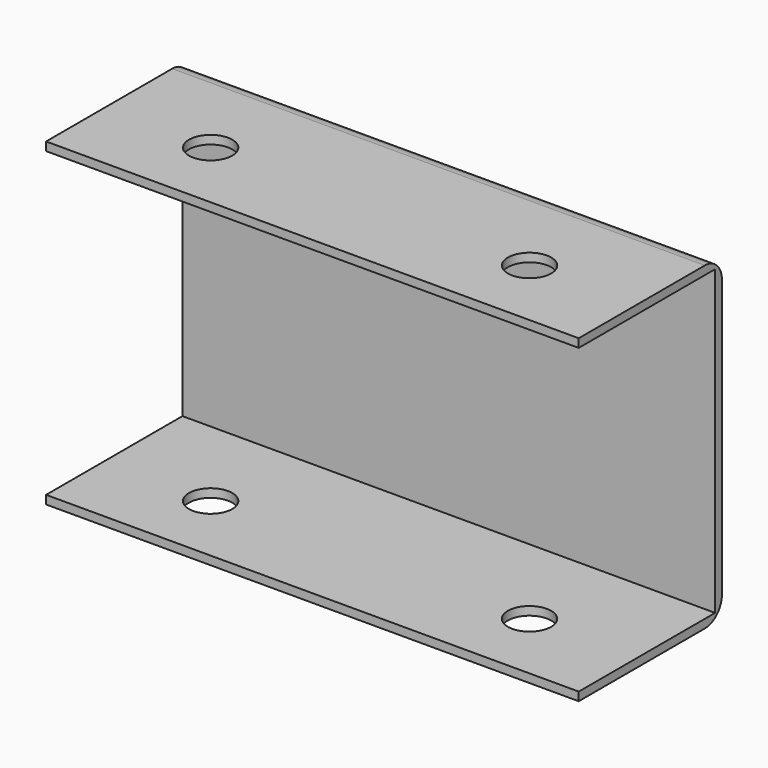
from build123d import *

# Parameters (mm, degrees)
F0_W     = 125
F0_H     = 75
F1_DEPTH = 2
F2_W     = 125
F2_H     = 2
F3_DEPTH = 40
F4_R     = 5
F5_R     = 5.08
F6_DEPTH = 100


with BuildPart() as f1:
    # F0 (on Front) → F1 (new body)
    with BuildSketch(Plane.XZ):
        Rectangle(F0_W, F0_H)
    extrude(amount=F1_DEPTH)

    # F2 (on face) → F3 (join)
    with BuildSketch(Plane.XZ.offset(2)):
        with Locations((0, -36.5)):
            Rectangle(F2_W, F2_H)
        with Locations((0, 36.5)):
            Rectangle(F2_W, F2_H)
    extrude(amount=F3_DEPTH)

    # F4
    f4_edges = [f1.edges().sort_by_distance(p)[0] for p in [
        (0, 0, 37.5),
        (0, 0, -37.5),
    ]]
    fillet(f4_edges, radius=F4_R)

    # F5 (on face) → F6 (cut)
    with BuildSketch(Plane.XY.offset(37.5)):
        with Locations((37.42, -25.08)):
            Circle(F5_R)
        with Locations((-37.42, -25.08)):
            Circle(F5_R)
    extrude(amount=-F6_DEPTH, mode=Mode.SUBTRACT)


solid = f1.part
